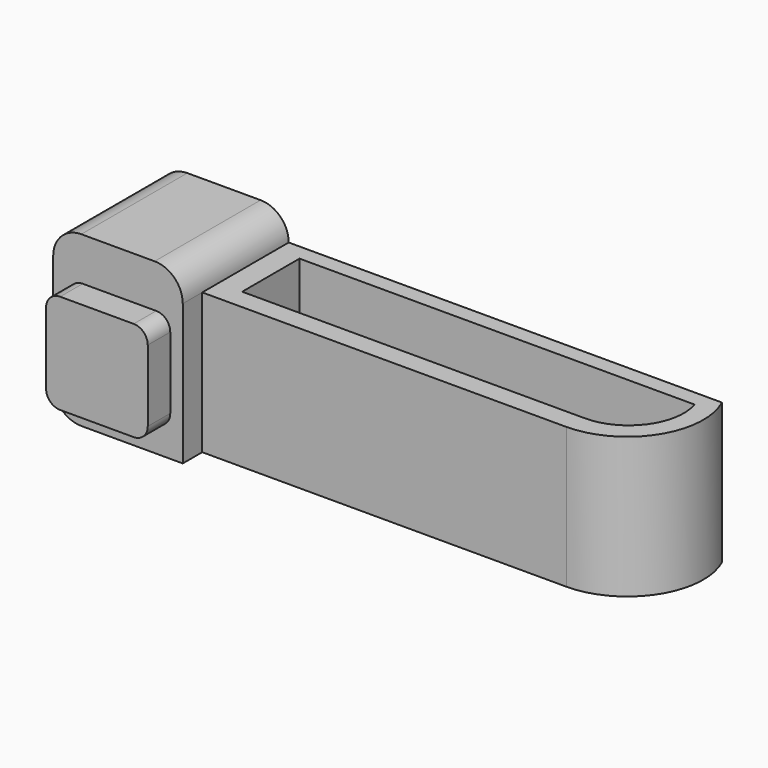
from build123d import *

# Parameters (mm, degrees)
F1_DEPTH = 5
F2_DEPTH = 6
F3_W     = 3.613461
F3_H     = 3.543161
F4_DEPTH = 1
F5_R     = 1
F6_R     = 0.5


with BuildPart() as f1:
    # F0 (on Top) → F1 (new body)
    with BuildSketch(Plane.XY):
        with BuildLine():
            Line((8.470888, 23.242861), (-6.924916, 23.242861))
            Line((-6.924916, 23.242861), (-6.924916, 19.400692))
            Line((-6.924916, 19.400692), (6.014677, 19.400692))
            ThreePointArc((6.014677, 19.400692), (8.294767, 20.649267), (8.470888, 23.242861))
        make_face()
        with BuildLine():
            Line((-6.086436, 20.126112), (-6.086436, 22.673488))
            Line((-6.086436, 22.673488), (7.95457, 22.673488))
            ThreePointArc((7.95457, 22.673488), (7.669569, 20.927019), (6.091618, 20.126112))
            Line((6.091618, 20.126112), (-6.086436, 20.126112))
        make_face(mode=Mode.SUBTRACT)
    extrude(amount=F1_DEPTH)

    # F0 (on Top) → F2 (join)
    with BuildSketch(Plane.XY):
        Polygon((-6.924916, 23.242861), (-11.529112, 23.242861), (-11.529112, 18.535126), (-6.924916, 18.535126), (-6.924916, 19.400692), align=None)
    extrude(amount=F2_DEPTH)

    # F3 (on face) → F4 (join)
    with BuildSketch(Plane.XZ.offset(-18.535126)):
        with Locations((-9.175593, 2.695312)):
            Rectangle(F3_W, F3_H)
    extrude(amount=F4_DEPTH)

    # F5
    f5_edges = [f1.edges().sort_by_distance(p)[0] for p in [
        (-11.529112, 20.888994, 6),
        (-6.924916, 20.888994, 6),
        (-11.529112, 20.888994, 0),
    ]]
    fillet(f5_edges, radius=F5_R)

    # F6
    f6_edges = [f1.edges().sort_by_distance(p)[0] for p in [
        (-10.982323, 18.035126, 4.466893),
        (-7.368862, 18.035126, 4.466893),
        (-10.982323, 18.035126, 0.923732),
        (-7.368862, 18.035126, 0.923732),
    ]]
    fillet(f6_edges, radius=F6_R)


solid = f1.part
